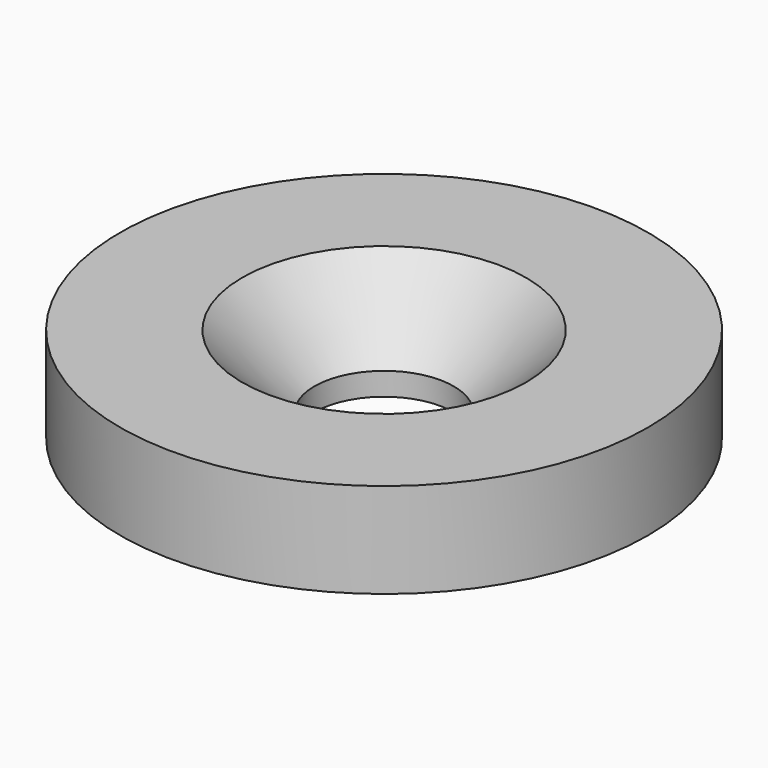
from build123d import *

# Parameters (mm, degrees)
F0_R           = 12.5
F1_DEPTH       = 4.5
F3_D           = 6.6
F3_CSINK_D     = 13.44
F3_CSINK_ANGLE = 90


with BuildPart() as f1:
    # F0 (on Top) → F1 (new body)
    with BuildSketch(Plane.XY):
        Circle(F0_R)
    extrude(amount=F1_DEPTH)

    # F3 (through all)
    with Locations(Plane.XY.offset(4.5)):
        with Locations((0, 0)):
            CounterSinkHole(F3_D / 2, F3_CSINK_D / 2, counter_sink_angle=F3_CSINK_ANGLE)


solid = f1.part
